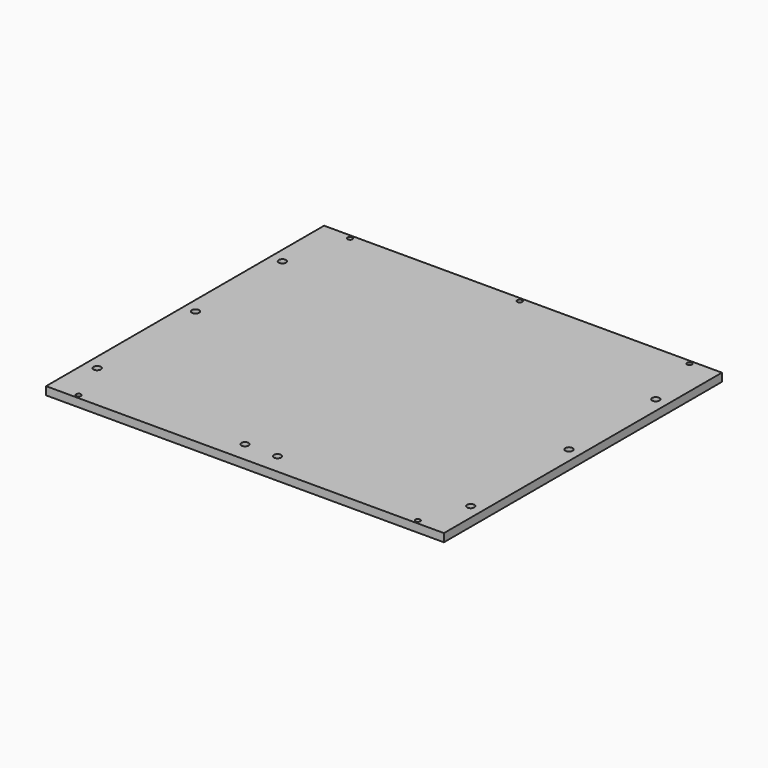
from build123d import *

# Parameters (mm, degrees)
F0_R     = 1.5
F0_R_2   = 2.25
F1_DEPTH = 2.5


with BuildPart() as f1:
    # F0 (on Top) → F1 (new body, symmetric)
    with BuildSketch(Plane.XY):
        Polygon((-122.5, -107), (122.5, -107), (122.5, 0.95), (122.5, 107), (-122.5, 107), (-122.5, 0.95), align=None)
        with Locations((-104.5, -104.5)):
            Circle(F0_R, mode=Mode.SUBTRACT)
        with Locations((-115, -77)):
            Circle(F0_R_2, mode=Mode.SUBTRACT)
        with Locations((-10, -94.5)):
            Circle(F0_R_2, mode=Mode.SUBTRACT)
        with Locations((-115, -1.375)):
            Circle(F0_R_2, mode=Mode.SUBTRACT)
        with Locations((10, -94.5)):
            Circle(F0_R_2, mode=Mode.SUBTRACT)
        with Locations((104.5, -104.5)):
            Circle(F0_R, mode=Mode.SUBTRACT)
        with Locations((115, -77)):
            Circle(F0_R_2, mode=Mode.SUBTRACT)
        with Locations((115, -1.375)):
            Circle(F0_R_2, mode=Mode.SUBTRACT)
        with Locations((-115, 65.5)):
            Circle(F0_R_2, mode=Mode.SUBTRACT)
        with Locations((-104.5, 104.5)):
            Circle(F0_R, mode=Mode.SUBTRACT)
        with Locations((0, 104.5)):
            Circle(F0_R, mode=Mode.SUBTRACT)
        with Locations((115, 65.5)):
            Circle(F0_R_2, mode=Mode.SUBTRACT)
        with Locations((104.5, 104.5)):
            Circle(F0_R, mode=Mode.SUBTRACT)
    extrude(amount=F1_DEPTH, both=True)


solid = f1.part
